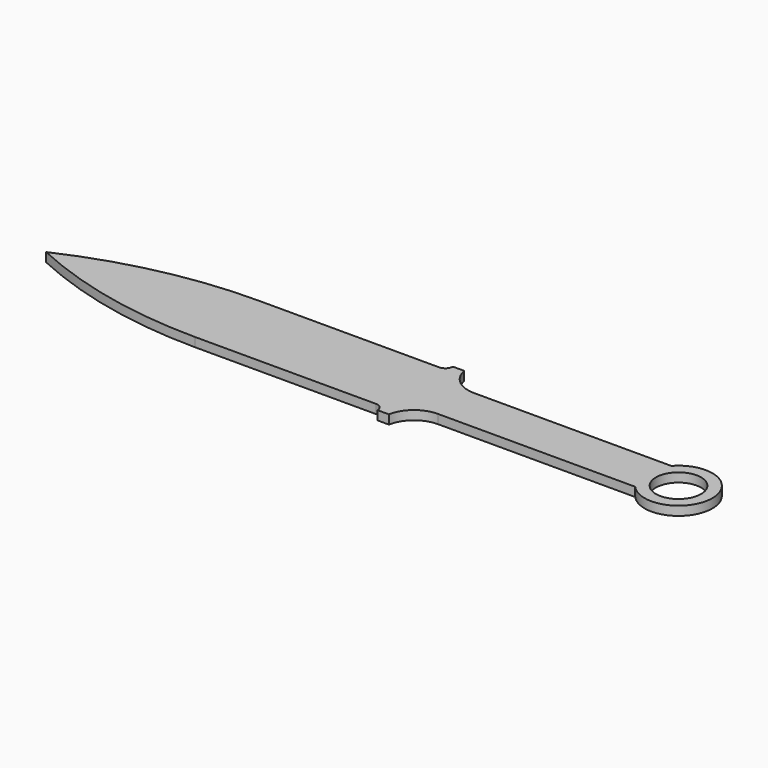
from build123d import *

# Parameters (mm, degrees)
F0_R     = 10
F1_DEPTH = 4


with BuildPart() as f1:
    # F0 (on Top) → F1 (new body)
    with BuildSketch(Plane.XY):
        with BuildLine():
            Line((88.077936, 17.5), (8.077936, 17.5))
            ThreePointArc((8.077936, 17.5), (-32.867912, 13.073878), (-71.922064, 0))
            ThreePointArc((-71.922064, 0), (-32.867912, -13.073878), (8.077936, -17.5))
            Line((8.077936, -17.5), (88.077936, -17.5))
            ThreePointArc((88.077936, -17.5), (90.480917, -18.473926), (91.527745, -20.846056))
            Line((91.527745, -20.846056), (96.527745, -20.846056))
            ThreePointArc((96.527745, -20.846056), (101.069456, -13.067111), (109.538927, -10))
            Line((109.538927, -10), (196.897596, -10))
            ThreePointArc((196.897596, -10), (223.077936, 0), (196.897596, 10))
            Line((196.897596, 10), (109.538927, 10))
            ThreePointArc((109.538927, 10), (101.069456, 13.067111), (96.527745, 20.846056))
            Line((96.527745, 20.846056), (91.527745, 20.846056))
            ThreePointArc((91.527745, 20.846056), (90.480917, 18.473926), (88.077936, 17.5))
        make_face()
        with Locations((208.077936, 0)):
            Circle(F0_R, mode=Mode.SUBTRACT)
    extrude(amount=F1_DEPTH)


solid = f1.part
